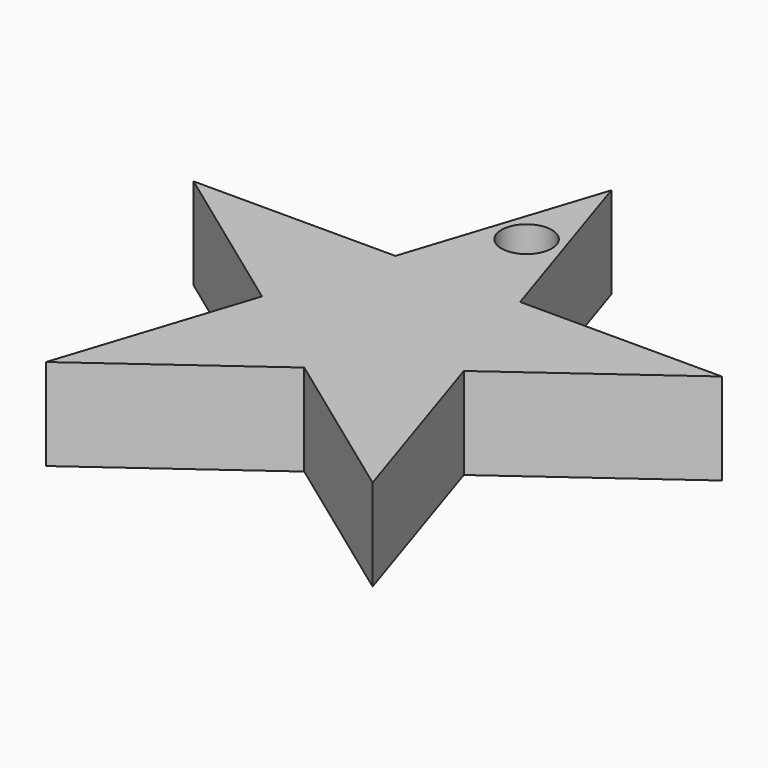
from build123d import *

# Parameters (mm, degrees)
F1_DEPTH = 92.22306
F2_R     = 25.4
F3_DEPTH = 267.25115


with BuildPart() as f1:
    # F0 (on Top) → F1 (new body)
    with BuildSketch(Plane.XY):
        Polygon((62.792253, 108.798585), (0, 302.053269), (-62.792253, 108.798585), (-265.992253, 108.798585), (-101.6, -10.639378), (-164.392253, -203.894062), (0, -84.456099), (164.392253, -203.894062), (101.6, -10.639378), (265.992253, 108.798585), align=None)
    extrude(amount=F1_DEPTH)

    # F2 (on face) → F3 (cut)
    with BuildSketch(Plane.XY.offset(92.22306)):
        with Locations((0, 195.460126)):
            Circle(F2_R)
    extrude(amount=-F3_DEPTH, mode=Mode.SUBTRACT)


solid = f1.part
